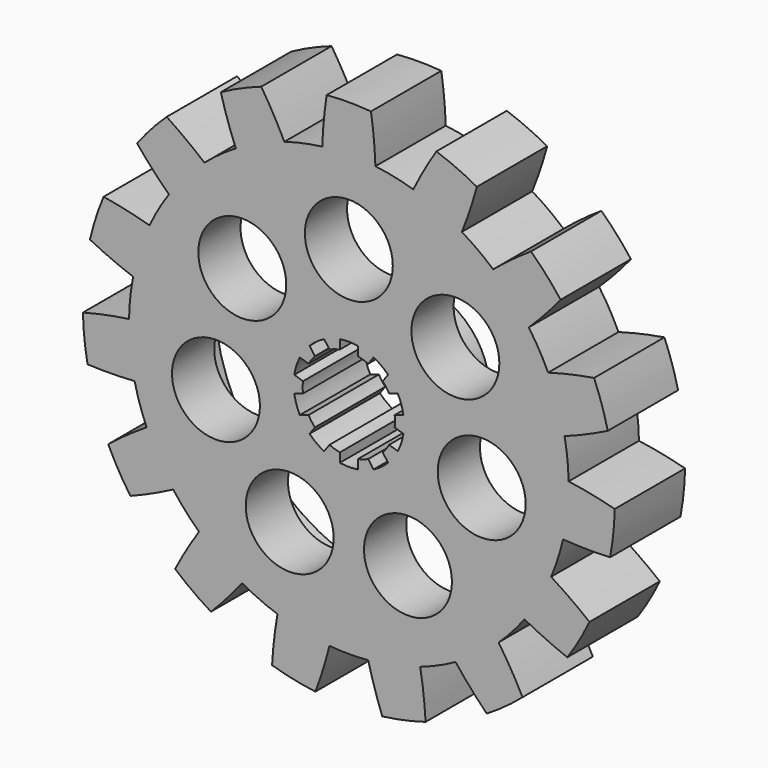
from build123d import *

# Parameters (mm, degrees)
F1_R     = 50
F2_DEPTH = 20
F4_DEPTH = 20
F5_R     = 45
F5_R_2   = 16
F6_DEPTH = 8
F7_R     = 10
F8_DEPTH = 25
F9_SIZE  = 2
F10_R    = 3


with BuildPart() as f2:
    # F1 (on Front) → F2 (new body)
    with BuildSketch(Plane.XZ):
        Circle(F1_R)
        with BuildLine():
            ThreePointArc((-2.05, 12.3814377194), (0, 12.55), (2.05, 12.3814377194))
            Line((2.05, 12.3814377194), (2.05, 10.2979366865))
            ThreePointArc((2.05, 10.2979366865), (3.2446784409, 9.9860934211), (4.3944904749, 9.5361655536))
            Line((4.3944904749, 9.5361655536), (5.6191416552, 11.221753297))
            ThreePointArc((5.6191416552, 11.221753297), (7.3767049163, 10.1531632794), (8.9361113321, 8.8118337626))
            Line((8.9361113321, 8.8118337626), (7.7114601519, 7.1262460192))
            ThreePointArc((7.7114601519, 7.1262460192), (8.4946784409, 6.1717451491), (9.1604349517, 5.1319033015))
            Line((9.1604349517, 5.1319033015), (11.1419621857, 5.7757405285))
            ThreePointArc((11.1419621857, 5.7757405285), (11.9357592795, 3.8781632794), (12.4089318626, 1.8764088117))
            Line((12.4089318626, 1.8764088117), (10.4274046286, 1.2325715847))
            ThreePointArc((10.4274046286, 1.2325715847), (10.4818354452, 0.6173537882), (10.5, 0))
            ThreePointArc((10.5, 0), (10.4818354452, -0.6173537882), (10.4274046286, -1.2325715847))
            Line((10.4274046286, -1.2325715847), (12.4089318626, -1.8764088117))
            ThreePointArc((12.4089318626, -1.8764088117), (11.9357592795, -3.8781632794), (11.1419621857, -5.7757405285))
            Line((11.1419621857, -5.7757405285), (9.1604349517, -5.1319033015))
            ThreePointArc((9.1604349517, -5.1319033015), (8.4946784409, -6.1717451491), (7.7114601519, -7.1262460192))
            Line((7.7114601519, -7.1262460192), (8.9361113321, -8.8118337626))
            ThreePointArc((8.9361113321, -8.8118337626), (7.3767049163, -10.1531632794), (5.6191416552, -11.221753297))
            Line((5.6191416552, -11.221753297), (4.3944904749, -9.5361655536))
            ThreePointArc((4.3944904749, -9.5361655536), (3.2446784409, -9.9860934211), (2.05, -10.2979366865))
            Line((2.05, -10.2979366865), (2.05, -12.3814377194))
            ThreePointArc((2.05, -12.3814377194), (0, -12.55), (-2.05, -12.3814377194))
            Line((-2.05, -12.3814377194), (-2.05, -10.2979366865))
            ThreePointArc((-2.05, -10.2979366865), (-3.2446784409, -9.9860934211), (-4.3944904749, -9.5361655536))
            Line((-4.3944904749, -9.5361655536), (-5.6191416552, -11.221753297))
            ThreePointArc((-5.6191416552, -11.221753297), (-7.3767049163, -10.1531632794), (-8.9361113321, -8.8118337626))
            Line((-8.9361113321, -8.8118337626), (-7.7114601519, -7.1262460192))
            ThreePointArc((-7.7114601519, -7.1262460192), (-8.4946784409, -6.1717451491), (-9.1604349517, -5.1319033015))
            Line((-9.1604349517, -5.1319033015), (-11.1419621857, -5.7757405285))
            ThreePointArc((-11.1419621857, -5.7757405285), (-11.9357592795, -3.8781632794), (-12.4089318626, -1.8764088117))
            Line((-12.4089318626, -1.8764088117), (-10.4274046286, -1.2325715847))
            ThreePointArc((-10.4274046286, -1.2325715847), (-10.5, 0), (-10.4274046286, 1.2325715847))
            Line((-10.4274046286, 1.2325715847), (-12.4089318626, 1.8764088117))
            ThreePointArc((-12.4089318626, 1.8764088117), (-11.9357592795, 3.8781632794), (-11.1419621857, 5.7757405285))
            Line((-11.1419621857, 5.7757405285), (-9.1604349517, 5.1319033015))
            ThreePointArc((-9.1604349517, 5.1319033015), (-8.4946784409, 6.1717451491), (-7.7114601519, 7.1262460192))
            Line((-7.7114601519, 7.1262460192), (-8.9361113321, 8.8118337626))
            ThreePointArc((-8.9361113321, 8.8118337626), (-7.3767049163, 10.1531632794), (-5.6191416552, 11.221753297))
            Line((-5.6191416552, 11.221753297), (-4.3944904749, 9.5361655536))
            ThreePointArc((-4.3944904749, 9.5361655536), (-3.2446784409, 9.9860934211), (-2.05, 10.2979366865))
            Line((-2.05, 10.2979366865), (-2.05, 12.3814377194))
        make_face(mode=Mode.SUBTRACT)
    extrude(amount=F2_DEPTH)

    # F3 (on Front) → F4 (join)
    with BuildSketch(Plane.XZ):
        with BuildLine():
            ThreePointArc((6.0454455831, 49.6331803102), (5.6999328162, 54.9765582241), (5.0372687356, 60.2899321917))
            ThreePointArc((5.0372687356, 60.2899321917), (0, 60.5), (-5.0372687356, 60.2899321917))
            ThreePointArc((-5.0372687356, 60.2899321917), (-5.6999328162, 54.9765582241), (-6.0454455831, 49.6331803102))
            ThreePointArc((-6.0454455831, 49.6331803102), (0, 50), (6.0454455831, 49.6331803102))
        make_face()
        with BuildLine():
            ThreePointArc((19.9203506586, 57.1264354711), (17.1538330068, 52.5419565819), (14.6648437927, 47.8010706631))
            ThreePointArc((14.6648437927, 47.8010706631), (20.3368321538, 45.6772728821), (25.7104224964, 42.8832621783))
            ThreePointArc((25.7104224964, 42.8832621783), (27.5681284731, 47.905213503), (29.1238986033, 53.0287519196))
            ThreePointArc((29.1238986033, 53.0287519196), (24.6075669061, 55.2695001874), (19.9203506586, 57.1264354711))
        make_face()
        with BuildLine():
            ThreePointArc((41.4335604532, 44.0852590802), (37.0415452653, 41.022373318), (32.8394484508, 37.7037216393))
            ThreePointArc((32.8394484508, 37.7037216393), (37.1572412739, 33.4565303179), (40.9298337882, 28.7184384337))
            ThreePointArc((40.9298337882, 28.7184384337), (44.6695442683, 32.5506221621), (48.1747418201, 36.5984186894))
            ThreePointArc((48.1747418201, 36.5984186894), (44.9602619414, 40.4824016847), (41.4335604532, 44.0852590802))
        make_face()
        with BuildLine():
            ThreePointArc((55.7825312334, 23.4213408923), (50.5244378355, 22.4096490308), (45.3358141347, 21.0870566164))
            ThreePointArc((45.3358141347, 21.0870566164), (47.5528258148, 15.4508497187), (49.0721049822, 9.587935785))
            ThreePointArc((49.0721049822, 9.587935785), (54.0471900496, 11.5677325362), (58.8957345225, 13.8398863816))
            ThreePointArc((58.8957345225, 13.8398863816), (57.5389192359, 18.6955281597), (55.7825312334, 23.4213408923))
        make_face()
        with BuildLine():
            ThreePointArc((60.486195595, -1.2923399121), (55.2711961039, -0.077907159), (49.9932056918, 0.8242479348))
            ThreePointArc((49.9932056918, 0.8242479348), (49.9983013941, 0.4121379686), (50, 0))
            ThreePointArc((50, 0), (49.6813253191, -5.6361258444), (48.7293634187, -11.2004080646))
            ThreePointArc((48.7293634187, -11.2004080646), (54.0795856679, -11.4153231348), (59.433119675, -11.3116880129))
            ThreePointArc((59.433119675, -11.3116880129), (60.1685746698, -6.3239720277), (60.486195595, -1.2923399121))
        make_face()
        with BuildLine():
            ThreePointArc((54.7312472383, -25.7825634052), (50.4610624428, -22.5519924933), (46.0063178108, -19.5810807029))
            ThreePointArc((46.0063178108, -19.5810807029), (43.3012701892, -25), (39.9608722277, -30.0520996073))
            ThreePointArc((39.9608722277, -30.0520996073), (44.7611296266, -32.4245657308), (49.6939785027, -34.5073687866))
            ThreePointArc((49.6939785027, -34.5073687866), (52.394536929, -30.25), (54.7312472383, -25.7825634052))
        make_face()
        with BuildLine():
            ThreePointArc((39.5127690163, -45.8147474582), (36.9257526611, -41.1266334471), (34.064519626, -36.6006625985))
            ThreePointArc((34.064519626, -36.6006625985), (29.3892626146, -40.4508497187), (24.2827831954, -43.7075101131))
            ThreePointArc((24.2827831954, -43.7075101131), (27.7030676308, -47.827306344), (31.3622969917, -51.7364120075))
            ThreePointArc((31.3622969917, -51.7364120075), (35.5610077637, -48.9455281597), (39.5127690164, -45.8147474582))
        make_face()
        with BuildLine():
            ThreePointArc((17.4621740692, -57.9251454618), (17.0056447843, -52.5901058542), (16.2326565314, -47.2916574242))
            ThreePointArc((16.2326565314, -47.2916574242), (10.3955845409, -48.9073800367), (4.4059803465, -49.8054950501))
            ThreePointArc((4.4059803465, -49.8054950501), (5.8548935672, -54.9602711929), (7.6077894133, -60.0197595817))
            ThreePointArc((7.6077894133, -60.0197595817), (12.5786572945, -59.1779298444), (17.4621740692, -57.9251454618))
        make_face()
        with BuildLine():
            ThreePointArc((-4.4059803465, -49.8054950501), (-10.3955845409, -48.9073800367), (-16.2326565314, -47.2916574242))
            ThreePointArc((-16.2326565314, -47.2916574242), (-17.0056447843, -52.5901058542), (-17.4621740692, -57.9251454618))
            ThreePointArc((-17.4621740692, -57.9251454618), (-12.5786572945, -59.1779298444), (-7.6077894133, -60.0197595817))
            ThreePointArc((-7.6077894133, -60.0197595817), (-5.8548935672, -54.9602711929), (-4.4059803465, -49.8054950501))
        make_face()
        with BuildLine():
            ThreePointArc((-24.2827831954, -43.7075101131), (-29.3892626146, -40.4508497187), (-34.064519626, -36.6006625985))
            ThreePointArc((-34.064519626, -36.6006625985), (-36.9257526611, -41.1266334471), (-39.5127690164, -45.8147474582))
            ThreePointArc((-39.5127690164, -45.8147474582), (-35.5610077637, -48.9455281597), (-31.3622969917, -51.7364120075))
            ThreePointArc((-31.3622969917, -51.7364120075), (-27.7030676308, -47.827306344), (-24.2827831954, -43.7075101131))
        make_face()
        with BuildLine():
            ThreePointArc((-39.9608722277, -30.0520996073), (-43.3012701892, -25), (-46.0063178108, -19.5810807029))
            ThreePointArc((-46.0063178108, -19.5810807029), (-50.4610624428, -22.5519924933), (-54.7312472383, -25.7825634052))
            ThreePointArc((-54.7312472383, -25.7825634052), (-52.394536929, -30.25), (-49.6939785027, -34.5073687866))
            ThreePointArc((-49.6939785027, -34.5073687866), (-44.7611296266, -32.4245657308), (-39.9608722277, -30.0520996073))
        make_face()
        with BuildLine():
            ThreePointArc((-48.7293634187, -11.2004080646), (-49.7260947684, -5.2264231634), (-49.9932056918, 0.8242479348))
            ThreePointArc((-49.9932056918, 0.8242479348), (-55.2711961039, -0.077907159), (-60.486195595, -1.2923399121))
            ThreePointArc((-60.486195595, -1.2923399121), (-60.1685746698, -6.3239720277), (-59.433119675, -11.3116880129))
            ThreePointArc((-59.433119675, -11.3116880129), (-54.0795856679, -11.4153231348), (-48.7293634187, -11.2004080646))
        make_face()
        with BuildLine():
            ThreePointArc((-49.0721049822, 9.587935785), (-47.5528258148, 15.4508497187), (-45.3358141347, 21.0870566164))
            ThreePointArc((-45.3358141347, 21.0870566164), (-50.5244378355, 22.4096490308), (-55.7825312334, 23.4213408923))
            ThreePointArc((-55.7825312334, 23.4213408923), (-57.5389192359, 18.6955281597), (-58.8957345225, 13.8398863816))
            ThreePointArc((-58.8957345225, 13.8398863816), (-54.0471900496, 11.5677325362), (-49.0721049822, 9.587935785))
        make_face()
        with BuildLine():
            ThreePointArc((-40.9298337882, 28.7184384337), (-37.1572412739, 33.4565303179), (-32.8394484508, 37.7037216393))
            ThreePointArc((-32.8394484508, 37.7037216393), (-37.0415452653, 41.022373318), (-41.4335604532, 44.0852590802))
            ThreePointArc((-41.4335604532, 44.0852590802), (-44.9602619414, 40.4824016847), (-48.1747418201, 36.5984186894))
            ThreePointArc((-48.1747418201, 36.5984186894), (-44.6695442683, 32.5506221621), (-40.9298337882, 28.7184384337))
        make_face()
        with BuildLine():
            ThreePointArc((-25.7104224964, 42.8832621783), (-20.3368321538, 45.6772728821), (-14.6648437927, 47.8010706631))
            ThreePointArc((-14.6648437927, 47.8010706631), (-17.1538330068, 52.5419565819), (-19.9203506586, 57.1264354711))
            ThreePointArc((-19.9203506586, 57.1264354711), (-24.6075669061, 55.2695001874), (-29.1238986033, 53.0287519196))
            ThreePointArc((-29.1238986033, 53.0287519196), (-27.5681284731, 47.905213503), (-25.7104224964, 42.8832621783))
        make_face()
    extrude(amount=F4_DEPTH)

    # F5 (on Front) → F6 (cut)
    with BuildSketch(Plane.XZ):
        Circle(F5_R)
        Circle(F5_R_2, mode=Mode.SUBTRACT)
    extrude(amount=F6_DEPTH, mode=Mode.SUBTRACT)

    # F7 (on Front) → F8 (cut)
    with BuildSketch(Plane.XZ):
        with Locations((0, 31)):
            Circle(F7_R)
        with Locations((-24.2367759565, 19.3281838576)):
            Circle(F7_R)
        with Locations((-30.2227652776, -6.8981489526)):
            Circle(F7_R)
        with Locations((-13.4503959126, -27.930034905)):
            Circle(F7_R)
        with Locations((13.4503959126, -27.930034905)):
            Circle(F7_R)
        with Locations((30.2227652776, -6.8981489526)):
            Circle(F7_R)
        with Locations((24.2367759565, 19.3281838576)):
            Circle(F7_R)
    extrude(amount=F8_DEPTH, mode=Mode.SUBTRACT)

    # F9
    f9_edges = [f2.edges().sort_by_distance(p)[0] for p in [
        (-45, 0, 0),
        (-45, -8, 0),
    ]]
    chamfer(f9_edges, length=F9_SIZE)

    # F10
    f10_edges = [f2.edges().sort_by_distance(p)[0] for p in [
        (-16, -8, 0),
    ]]
    fillet(f10_edges, radius=F10_R)


solid = f2.part
